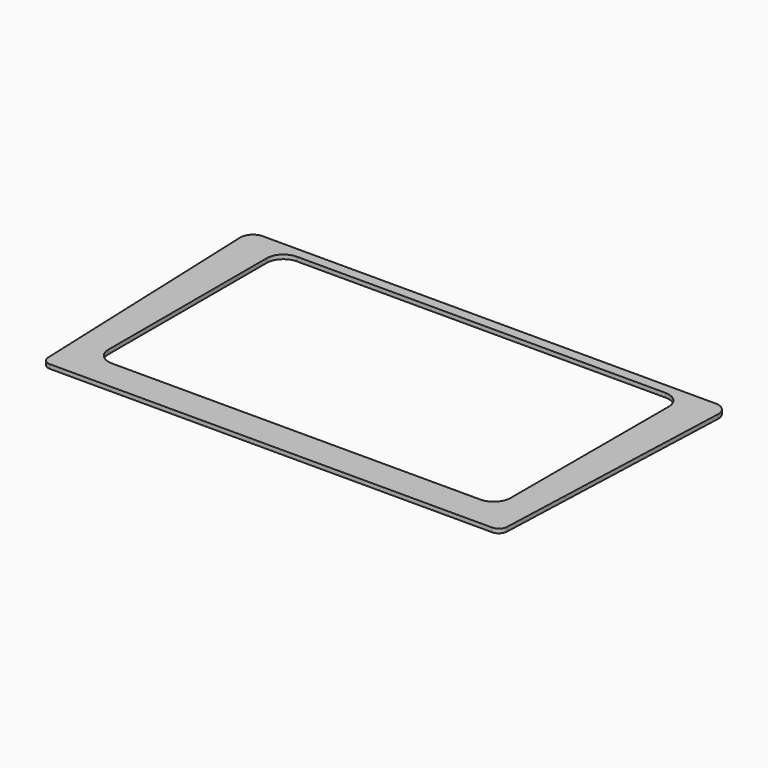
from build123d import *

# Parameters (mm, degrees)
PAD_DEPTH    = 2
FILLET_R     = 4
FILLET001_R  = 6
POCKET_DEPTH = 5


with BuildPart() as part:
    # Sketch → Pad (new body)
    with BuildSketch(Plane.XY):
        Polygon((-115, 111), (115, 111), (110, -20), (-110, -20), align=None)
    extrude(amount=PAD_DEPTH)

    # Fillet
    fillet_edges = [part.edges().sort_by_distance(p)[0] for p in [
        (-110, -20, 1),
        (110, -20, 1),
    ]]
    fillet(fillet_edges, radius=FILLET_R)

    # Fillet001
    fillet001_edges = [part.edges().sort_by_distance(p)[0] for p in [
        (-115, 111, 1),
        (115, 111, 1),
    ]]
    fillet(fillet001_edges, radius=FILLET001_R)

    # Sketch001 (on Face5 of Fillet001) → Pocket (cut)
    with BuildSketch(Plane.XY.offset(2)):
        with BuildLine():
            Line((-88.5, 106), (88.5, 106))
            ThreePointArc((96.5, 98), (94.156854, 103.656854), (88.5, 106))
            Line((96.5, 98), (96.5, 3))
            ThreePointArc((88.5, -5), (94.156854, -2.656854), (96.5, 3))
            Line((88.5, -5), (-88.5, -5))
            ThreePointArc((-96.5, 3), (-94.156854, -2.656854), (-88.5, -5))
            Line((-96.5, 3), (-96.5, 98))
            ThreePointArc((-88.5, 106), (-94.156854, 103.656854), (-96.5, 98))
        make_face()
    extrude(amount=-POCKET_DEPTH, mode=Mode.SUBTRACT)


solid = part.part
